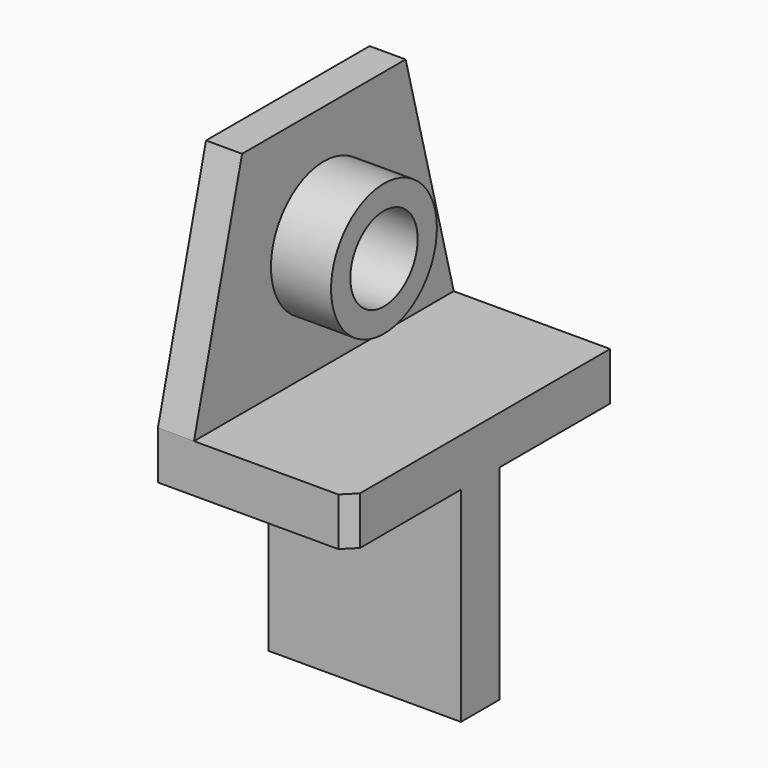
from build123d import *

# Parameters (mm, degrees)
F1_DEPTH = 32
F3_DEPTH = 6
F4_R     = 11
F4_R_2   = 7
F5_DEPTH = 10
F6_SIZE  = 2


with BuildPart() as f1:
    # F0 (on Right) → F1 (new body)
    with BuildSketch(Plane.YZ):
        Polygon((27, 0), (-27, 0), (-27, -8), (-4, -8), (-4, -42), (4, -42), (4, -8), (27, -8), align=None)
    extrude(amount=-F1_DEPTH)

    # F2 (on face) → F3 (join)
    with BuildSketch(Plane(origin=(-32, 0, 0), x_dir=(0, -1, 0), z_dir=(-1, 0, 0))):
        Polygon((-27, 0), (27, 0), (17, 38), (-17, 38), align=None)
    extrude(amount=-F3_DEPTH)

    # F4 (on face) → F5 (join)
    with BuildSketch(Plane.YZ.offset(-26)):
        with Locations((0, 19)):
            Circle(F4_R)
        with Locations((0, 19)):
            Circle(F4_R_2, mode=Mode.SUBTRACT)
    extrude(amount=F5_DEPTH)

    # F6
    f6_edges = [f1.edges().sort_by_distance(p)[0] for p in [
        (0, -27, -4),
    ]]
    chamfer(f6_edges, length=F6_SIZE)


solid = f1.part
